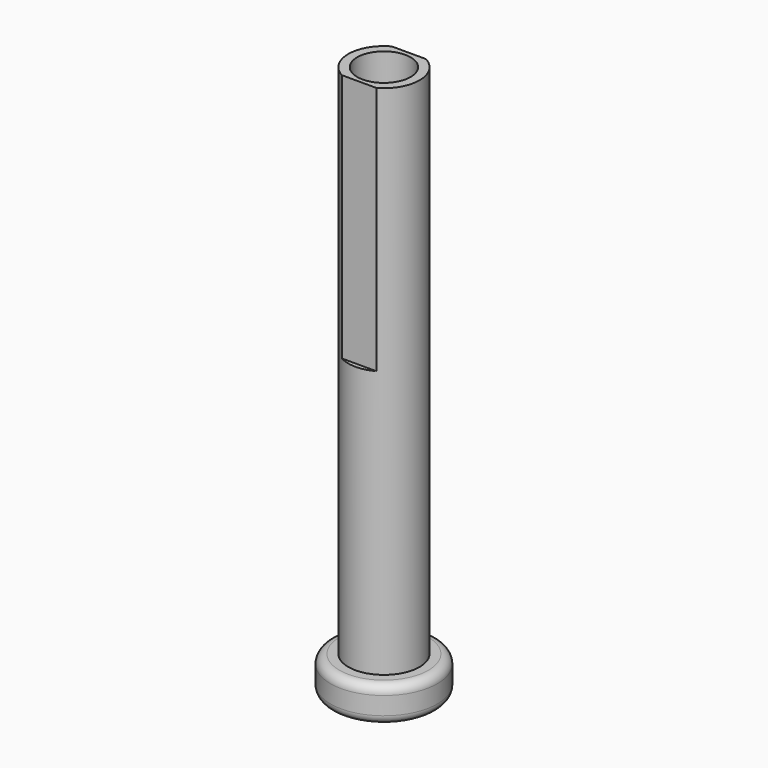
from build123d import *

# Parameters (mm, degrees)
SKETCH001_R     = 3
POCKET_DEPTH    = 10
FILLET_R        = 1
FILLET001_R     = 1
SKETCH002_W     = 10
SKETCH002_H     = 5
POCKET001_DEPTH = 28


with BuildPart() as part:
    # Sketch → Revolution (revolve)
    with BuildSketch(Plane.XZ):
        Polygon((-2.2, 0), (-6, 0), (-6, 4), (-4, 4), (-4, 62), (0, 62), (0, 2), (-2.2, 2), align=None)
    revolve(axis=Axis((0, 0, 0), (0, 0, 1)))

    # Sketch001 (on Face5 of Revolution) → Pocket (cut)
    with BuildSketch(Plane(origin=(0, 0, 62), x_dir=(-1, 0, 0), z_dir=(0, 0, 1))):
        Circle(SKETCH001_R)
    extrude(amount=-POCKET_DEPTH, mode=Mode.SUBTRACT)

    # Fillet
    fillet_edges = [part.edges().sort_by_distance(p)[0] for p in [
        (2.2, 0, 0),
        (6, 0, 0),
    ]]
    fillet(fillet_edges, radius=FILLET_R)

    # Fillet001
    fillet001_edges = [part.edges().sort_by_distance(p)[0] for p in [
        (6, 0, 4),
    ]]
    fillet(fillet001_edges, radius=FILLET001_R)

    # Sketch002 (on Face8 of Fillet001) → Pocket001 (cut)
    with BuildSketch(Plane(origin=(0, 0, 62), x_dir=(-1, 0, 0), z_dir=(0, 0, 1))):
        with Locations((0, -6)):
            Rectangle(SKETCH002_W, SKETCH002_H)
        with Locations((0, 6)):
            Rectangle(SKETCH002_W, SKETCH002_H)
    extrude(amount=-POCKET001_DEPTH, mode=Mode.SUBTRACT)


solid = part.part
